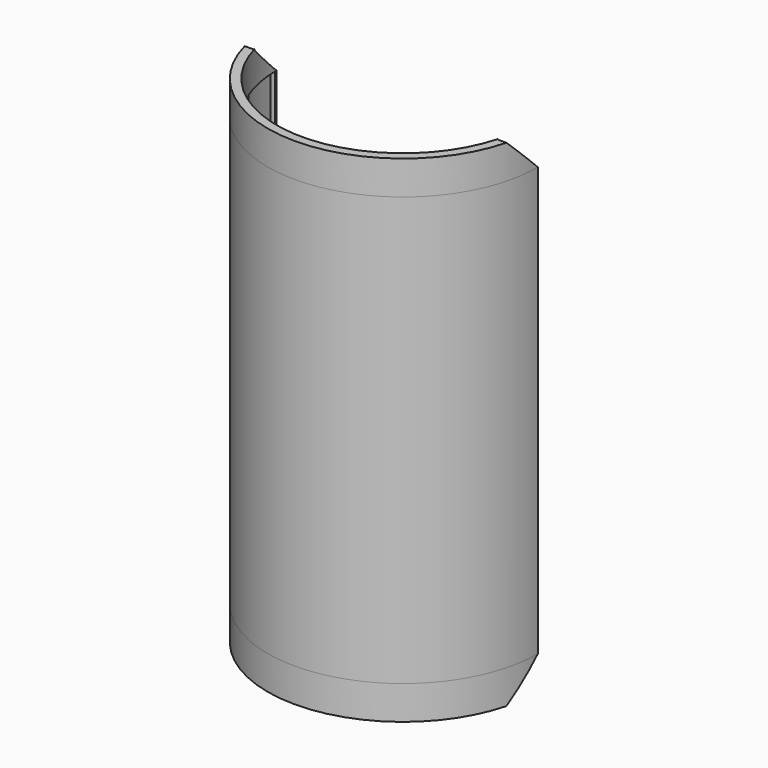
from build123d import *

# Parameters (mm, degrees)
SKETCH_R              = 30
SKETCH_R_2            = 29
PAD_DEPTH             = 95
SKETCH002_W           = 1
SKETCH002_H           = 95
PAD001_DEPTH          = 1
POLARPATTERN_COUNT    = 16
SKETCH003_R           = 29.999991
SKETCH003_R_2         = 28
PAD002_DEPTH          = 7.5
SKETCH004_R           = 29.999992
SKETCH004_R_2         = 28
PAD003_DEPTH          = 7.5
SKETCH005_W           = 73.447476
SKETCH005_H           = 40.293671
POCKET_DEPTH          = 110.001
POCKET001_DEPTH       = 2
POCKET001_DEPTH_BACK  = 2
POLARPATTERN001_COUNT = 2


with BuildPart() as part:
    # Sketch → Pad (new body)
    with BuildSketch(Plane.XY):
        Circle(SKETCH_R)
        Circle(SKETCH_R_2, mode=Mode.SUBTRACT)
    extrude(amount=PAD_DEPTH)

    # Sketch002 (on DatumPlane) → Pad001 (join)
    with BuildSketch(Plane(origin=(29, 0, 95), x_dir=(0, -1, 0), z_dir=(-1, 0, 0))):
        with Locations((0, -47.5)):
            Rectangle(SKETCH002_W, SKETCH002_H)
    pad001 = extrude(amount=PAD001_DEPTH)

    # PolarPattern: Pad001 ×16 about axis
    polarpattern_axis = Axis((0, 0, 0), (0, 0, 1))
    for i in range(1, POLARPATTERN_COUNT):
        add(pad001.rotate(polarpattern_axis, i * 360 / POLARPATTERN_COUNT))

    # Sketch003 (on Face67 of PolarPattern) → Pad002 (join)
    with BuildSketch(Plane.XY.offset(95)):
        Circle(SKETCH003_R)
        Circle(SKETCH003_R_2, mode=Mode.SUBTRACT)
    extrude(amount=PAD002_DEPTH)

    # Sketch004 (on Face2 of Pad002) → Pad003 (join)
    with BuildSketch(Plane(origin=(0, 0, 0), x_dir=(1, 0, 0), z_dir=(0, 0, -1))):
        Circle(SKETCH004_R)
        Circle(SKETCH004_R_2, mode=Mode.SUBTRACT)
    extrude(amount=PAD003_DEPTH)

    # Sketch005 (on Face4 of Pad003) → Pocket (cut, through all)
    with BuildSketch(Plane(origin=(0, 0, -7.5), x_dir=(1, 0, 0), z_dir=(0, 0, -1))):
        with Locations((-0.097845, -20.146835)):
            Rectangle(SKETCH005_W, SKETCH005_H)
    extrude(amount=-POCKET_DEPTH, mode=Mode.SUBTRACT)

    # Sketch006 (on DatumPlane) → Pocket001 (cut, two sides)
    with BuildSketch(Plane(origin=(29, 0, 95), x_dir=(0, -1, 0), z_dir=(-1, 0, 0))) as pocket001_sk:
        Polygon((-7.6, 7.5), (7.6, 7.5), (0.1, 0), (-0.1, 0), align=None)
        Polygon((7.6, -102.5), (-7.6, -102.5), (-0.1, -95), (0.1, -95), align=None)
    pocket001 = extrude(amount=-POCKET001_DEPTH, mode=Mode.SUBTRACT) + extrude(pocket001_sk.sketch, amount=POCKET001_DEPTH_BACK, mode=Mode.SUBTRACT)

    # PolarPattern001: Pocket001 ×2 about axis
    polarpattern001_axis = Axis((0, 0, 0), (0, 0, 1))
    for i in range(1, POLARPATTERN001_COUNT):
        add(pocket001.rotate(polarpattern001_axis, i * 360 / POLARPATTERN001_COUNT), mode=Mode.SUBTRACT)


solid = part.part
